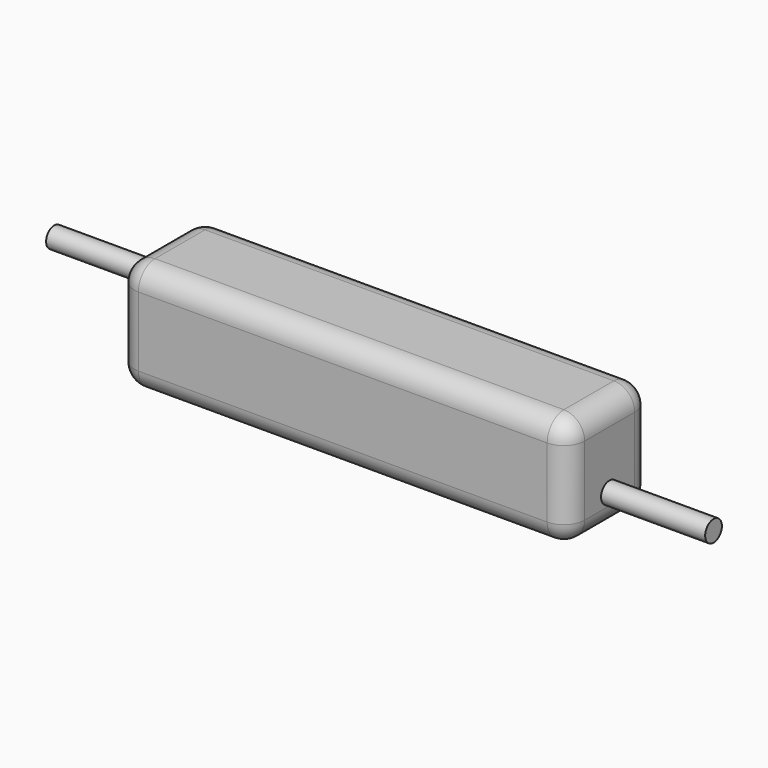
from build123d import *

# Parameters (mm, degrees)
F0_W     = 109.8804
F0_H     = 27.140012
F1_DEPTH = 25.4
F2_R     = 2.552321
F3_DEPTH = 25.4
F4_R     = 2.492803
F5_DEPTH = 25.4
F6_R     = 5.08


with BuildPart() as f1:
    # F0 (on Front) → F1 (new body)
    with BuildSketch(Plane.XZ):
        with Locations((-22.889608, 13.570006)):
            Rectangle(F0_W, F0_H)
    extrude(amount=F1_DEPTH)

    # F6
    f6_edges = [f1.edges().sort_by_distance(p)[0] for p in [
        (-22.889608, -25.4, 27.140012),
        (32.050592, -12.7, 27.140012),
        (32.050592, -25.4, 13.570006),
        (-22.889608, 0, 27.140012),
        (-77.829808, -12.7, 27.140012),
        (-77.829808, -25.4, 13.570006),
        (-22.889608, -25.4, 0),
        (32.050592, 0, 13.570006),
        (32.050592, -12.7, 0),
        (-77.829808, 0, 13.570006),
        (-77.829808, -12.7, 0),
        (-22.889608, 0, 0),
    ]]
    fillet(f6_edges, radius=F6_R)


with BuildPart() as f3:
    # F2 (on face) → F3 (new body)
    with BuildSketch(Plane.YZ.offset(32.050592)):
        with Locations((-12.77338, 7.974423)):
            Circle(F2_R)
    extrude(amount=F3_DEPTH)


with BuildPart() as f5:
    # F4 (on face) → F5 (new body)
    with BuildSketch(Plane(origin=(-77.829808, 0, 0), x_dir=(0, -1, 0), z_dir=(-1, 0, 0))):
        with Locations((12.9495, 18.913804)):
            Circle(F4_R)
    extrude(amount=F5_DEPTH)


solid = Compound([f1.part, f3.part, f5.part])
